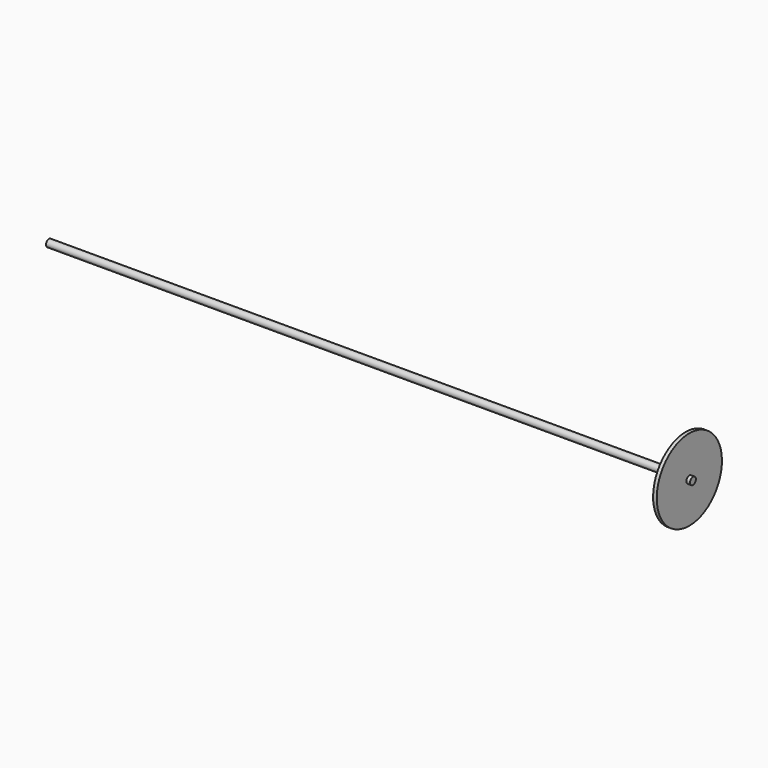
from build123d import *

# Parameters (mm, degrees)
CYLINDER001_R           = 56
CYLINDER001_DEPTH       = 5
CYLINDER001_PITCH_ANGLE = 90
SKETCH002_R             = 5
PAD001_DEPTH            = 10
PAD001_DEPTH_BACK       = 875


with BuildPart() as flange_for_rod001:
    # Cylinder001 → Cylinder001 (new body)
    with BuildSketch(Plane.XY):
        Circle(CYLINDER001_R)
    extrude(amount=CYLINDER001_DEPTH)


with BuildPart() as flange_for_rod001_1:
    # Cylinder001 pitch: moved
    add(flange_for_rod001.part.rotate(Axis((0, 0, 0), (0, 1, 0)), CYLINDER001_PITCH_ANGLE))


with BuildPart() as flange_for_rod001_2:
    # Cylinder001 placement: moved
    add(flange_for_rod001_1.part)


with BuildPart() as rod_flange001:
    # Sketch002 → Pad001 (new body, two sides)
    with BuildSketch(Plane.YZ) as pad001_sk:
        Circle(SKETCH002_R)
    extrude(amount=PAD001_DEPTH)
    extrude(pad001_sk.sketch, amount=-PAD001_DEPTH_BACK)

    # Fusion001: union Flange_for_Rod001
    add(flange_for_rod001_2.part)


with BuildPart() as rod_flange001_1:
    # Fusion001 placement: moved
    add(rod_flange001.part.moved(Location((250, 0, 0))))


solid = rod_flange001_1.part
